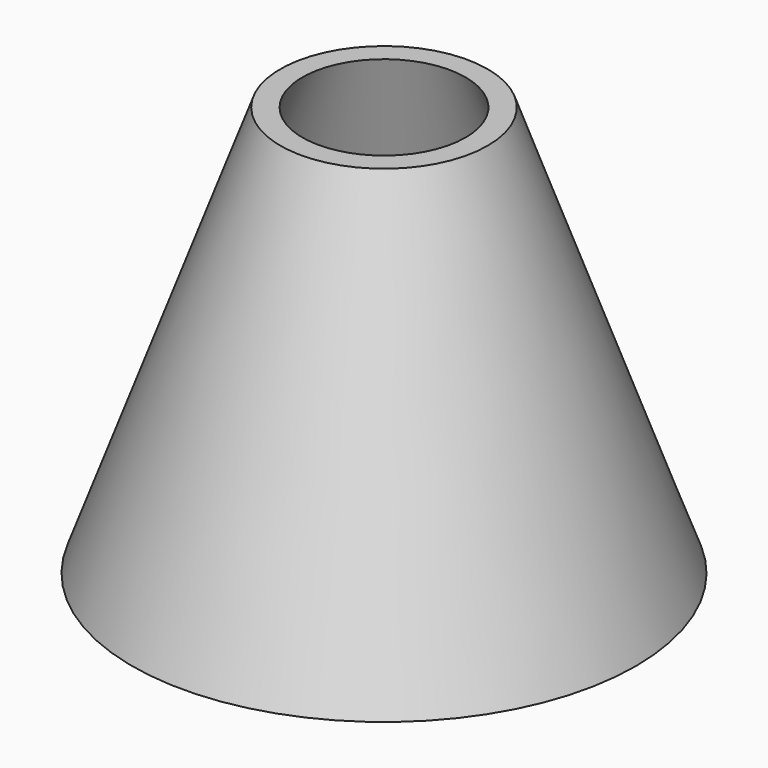
from build123d import *

# Parameters (mm, degrees)
F2_T = -2.54


with BuildPart() as f1:
    # F0 (on Front) → F1 (revolve)
    with BuildSketch(Plane.XZ):
        Polygon((12.646406, 49.9872), (0, 49.9872), (0, 0), (30.7086, 0), align=None)
    revolve(axis=Axis((0, 0, 24.9936), (0, 0, 1)))

    # F2
    f2_openings = [f1.faces().sort_by_distance(p)[0] for p in [
        (0, 0, 0),
        (0, 0, 49.9872),
    ]]
    offset(amount=F2_T, openings=f2_openings)


solid = f1.part
